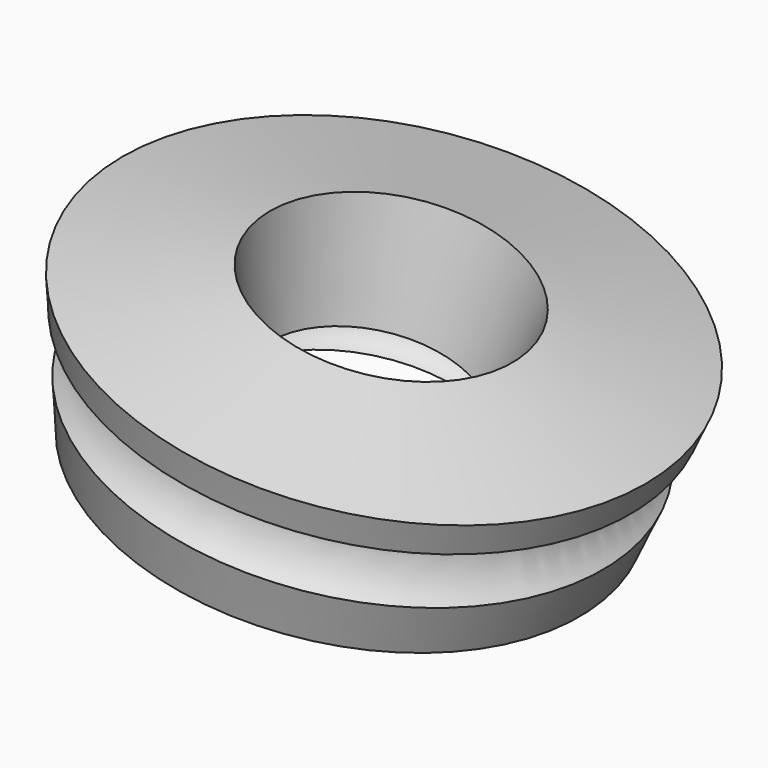
from build123d import *


with BuildPart() as f1:
    # F0 (on Front) → F1 (revolve)
    with BuildSketch(Plane.XZ):
        with BuildLine():
            Line((44.8225822893, 36.6149544716), (-37.1047705412, 36.6149544716))
            Line((-37.1047705412, 36.6149544716), (-37.1047705412, 17.2693547201))
            add(Edge.make_bspline(
                [(-23.6348062754, 17.240293324), (-28.8823725055, 21.2002017668), (-37.1047705412, 17.2693547201)],
                knots=[0, 0, 0, 0.8786333645, 0.8786333645, 0.8786333645], degree=2, weights=[1, 0.905042504, 1]))
            add(Edge.make_bspline(
                [(-37.1047705412, -18.488850851), (0.1260428162, -0.6900734021), (-23.6348062754, 17.240293324)],
                knots=[4.0202260181, 4.0202260181, 4.0202260181, 6.2831853072, 6.2831853072, 6.2831853072], degree=2, weights=[1, 0.4253211328, 1]))
            Line((-37.1047705412, -18.488850851), (-37.1047705412, -48.5296896983))
            Line((-37.1047705412, -48.5296896983), (21.97663486, -48.5296896983))
            ThreePointArc((21.97663486, -48.5296896983), (19.2546936408, -22.7140196287), (44.8225822893, -27.2018760443))
            Line((44.8225822893, -27.2018760443), (44.8225822893, 36.6149544716))
        make_face()
    revolve(axis=Axis((87.4805906788, 0, -87.5350297429), (0.2206220993, 0, 0.9753593642)))


solid = f1.part
